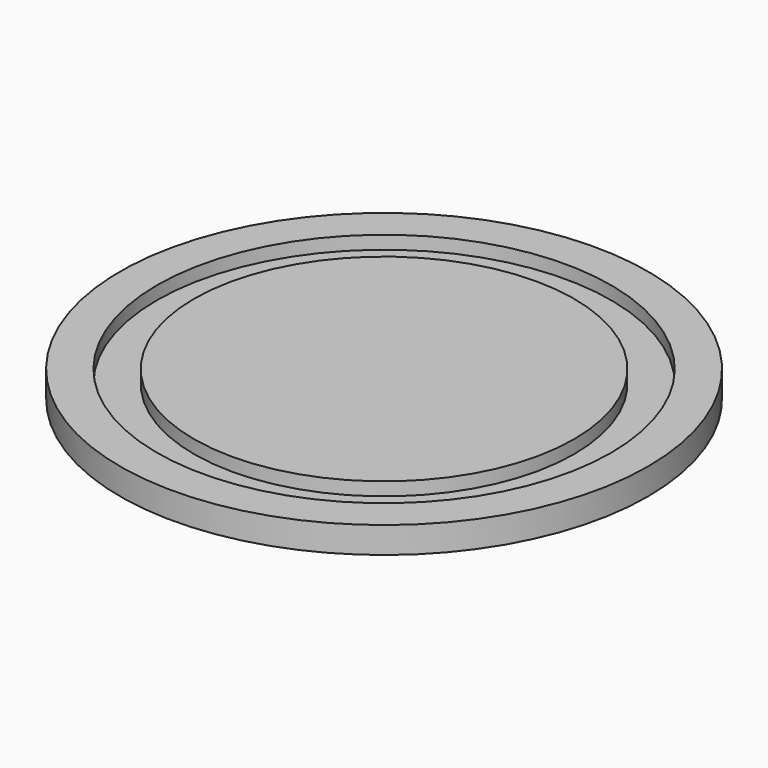
from build123d import *

# Parameters (mm, degrees)
F0_R     = 500
F1_DEPTH = 50
F2_R     = 430
F2_R_2   = 360
F3_DEPTH = 25


with BuildPart() as f1:
    # F0 (on Top) → F1 (new body)
    with BuildSketch(Plane.XY):
        Circle(F0_R)
    extrude(amount=F1_DEPTH)

    # F2 (on face) → F3 (cut)
    with BuildSketch(Plane.XY.offset(50)):
        Circle(F2_R)
        Circle(F2_R_2, mode=Mode.SUBTRACT)
    extrude(amount=-F3_DEPTH, mode=Mode.SUBTRACT)


solid = f1.part
